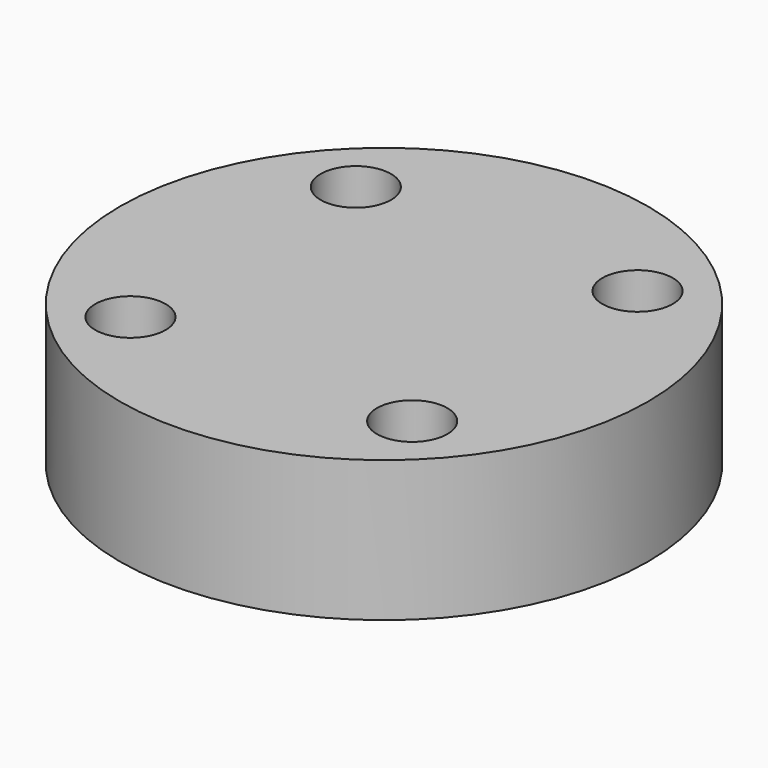
from build123d import *

# Parameters (mm, degrees)
CYLINDER1179_R     = 1
CYLINDER1179_DEPTH = 20
CYLINDER1184_R     = 1
CYLINDER1184_DEPTH = 20
CYLINDER1174_R     = 1
CYLINDER1174_DEPTH = 20
CYLINDER1186_R     = 1
CYLINDER1186_DEPTH = 20
CYLINDER1171_R     = 7.5
CYLINDER1171_DEPTH = 4


with BuildPart() as obj1:
    # Cylinder1179 → Cylinder1179 (new body)
    with BuildSketch(Plane(origin=(4, -4, -88), x_dir=(0, 1, 0), z_dir=(0, 0, 1))):
        Circle(CYLINDER1179_R)
    extrude(amount=CYLINDER1179_DEPTH)


with BuildPart() as obj2:
    # Cylinder1184 → Cylinder1184 (new body)
    with BuildSketch(Plane(origin=(4, 4, -88), x_dir=(-1, 0, 0), z_dir=(0, 0, 1))):
        Circle(CYLINDER1184_R)
    extrude(amount=CYLINDER1184_DEPTH)


with BuildPart() as obj3:
    # Cylinder1174 → Cylinder1174 (new body)
    with BuildSketch(Plane(origin=(-4, 4, -88), x_dir=(0, -1, 0), z_dir=(0, 0, 1))):
        Circle(CYLINDER1174_R)
    extrude(amount=CYLINDER1174_DEPTH)


with BuildPart() as compound893:
    # Cylinder1186 → Cylinder1186 (new body)
    with BuildSketch(Plane(origin=(-4, -4, -88), x_dir=(1, 0, 0), z_dir=(0, 0, 1))):
        Circle(CYLINDER1186_R)
    extrude(amount=CYLINDER1186_DEPTH)

    # Compound893: union obj1, obj2, obj3
    add(obj1.part)
    add(obj2.part)
    add(obj3.part)


with BuildPart() as compound893_1:
    # Compound893 placement: moved
    add(compound893.part.moved(Location((0, 0, 91))))


with BuildPart() as cut441:
    # Cylinder1171 → Cylinder1171 (new body)
    with BuildSketch(Plane.XY.offset(15)):
        Circle(CYLINDER1171_R)
    extrude(amount=CYLINDER1171_DEPTH)

    # Cut441: cut Compound893
    add(compound893_1.part, mode=Mode.SUBTRACT)


solid = cut441.part
